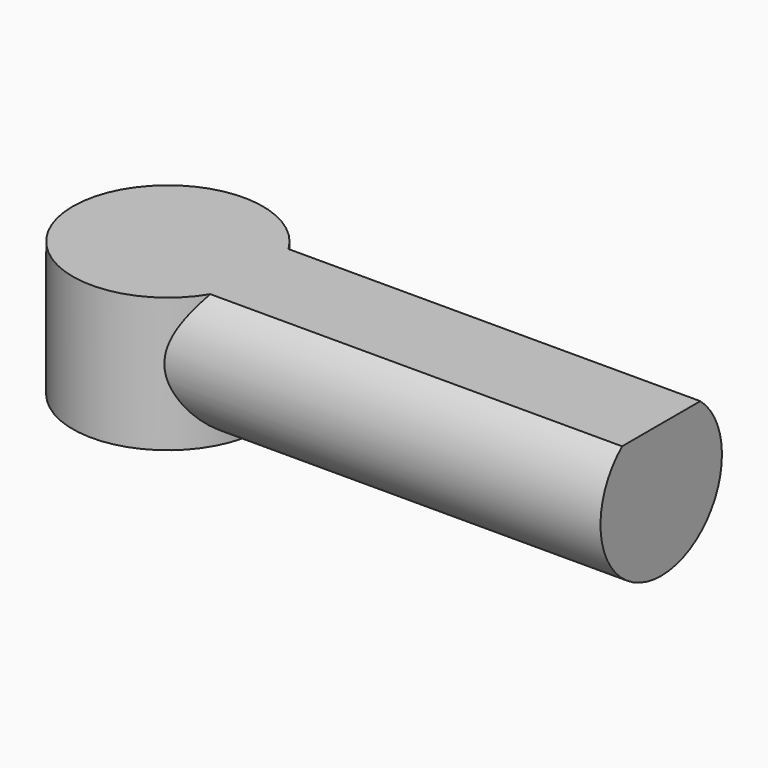
from build123d import *

# Parameters (mm, degrees)
F0_R     = 6.3627
F1_DEPTH = 8.9916
F2_R     = 5.08
F3_DEPTH = 33.02
F4_DEPTH = 33.02


with BuildPart() as f1:
    # F0 (on Top) → F1 (new body)
    with BuildSketch(Plane.XY):
        Circle(F0_R)
    extrude(amount=-F1_DEPTH)

    # F2 (on Right) → F3 (join)
    with BuildSketch(Plane.YZ):
        with Locations((0, -3.8867404219)):
            Circle(F2_R)
    extrude(amount=F3_DEPTH)

    # F4 (cut, through all): a face of the model
    f4_faces = [f1.faces().sort_by_distance(p)[0] for p in [
        (0, 0, 0.4824606672),
    ]]
    extrude(f4_faces, amount=-F4_DEPTH, mode=Mode.SUBTRACT)


solid = f1.part
